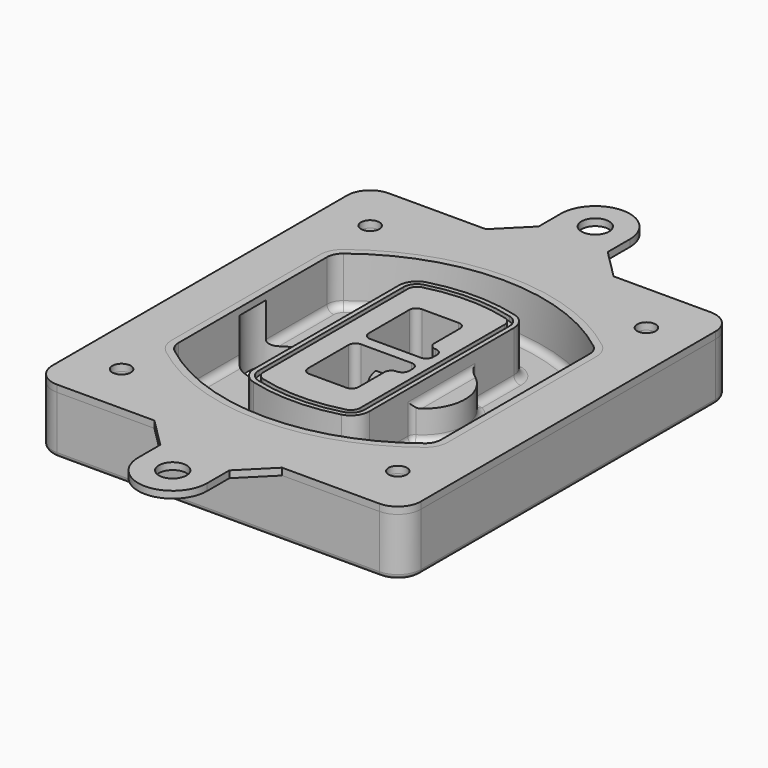
from build123d import *

# Parameters (mm, degrees)
F0_R      = 4
F1_DEPTH  = 25
F2_DEPTH  = 3
F3_DEPTH  = 18
F5_DEPTH  = 21
F6_DEPTH  = 2
F8_DEPTH  = 20
F9_DEPTH  = 16
F10_DEPTH = 25
F7_R      = 6
F7_R_2    = 4
F11_DEPTH = 6
F13_DEPTH = 9
F14_R     = 3
F15_R     = 2
F16_R     = 6
F16_R_2   = 4
F17_DEPTH = 3


with BuildPart() as f1:
    # F0 (on Top) → F1 (new body)
    with BuildSketch(Plane.XY):
        with BuildLine():
            ThreePointArc((-80, -80), (-77.0710678119, -87.0710678119), (-70, -90))
            Line((-70, -90), (70, -90))
            ThreePointArc((70, -90), (77.0710678119, -87.0710678119), (80, -80))
            Line((80, -80), (80, 80))
            ThreePointArc((80, 80), (77.0710678119, 87.0710678119), (70, 90))
            Line((70, 90), (-70, 90))
            ThreePointArc((-70, 90), (-77.0710678119, 87.0710678119), (-80, 80))
            Line((-80, 80), (-80, -80))
        make_face()
        with Locations((-60, -67.5)):
            Circle(F0_R, mode=Mode.SUBTRACT)
        with Locations((60, -67.5)):
            Circle(F0_R, mode=Mode.SUBTRACT)
        with Locations((-60, 67.5)):
            Circle(F0_R, mode=Mode.SUBTRACT)
        with BuildLine():
            ThreePointArc((-64, 40.2934422872), (-62.5820384798, 46.4328484224), (-58.6153846154, 51.3286200352))
            ThreePointArc((-58.6153846154, 51.3286200352), (0, 71.5), (58.6153846154, 51.3286200352))
            ThreePointArc((58.6153846154, 51.3286200352), (62.5820384798, 46.4328484224), (64, 40.2934422872))
            Line((64, 40.2934422872), (64, -40.2934422872))
            ThreePointArc((64, -40.2934422872), (62.5820384798, -46.4328484224), (58.6153846154, -51.3286200352))
            ThreePointArc((58.6153846154, -51.3286200352), (0, -71.5), (-58.6153846154, -51.3286200352))
            ThreePointArc((-58.6153846154, -51.3286200352), (-62.5820384798, -46.4328484224), (-64, -40.2934422872))
            Line((-64, -40.2934422872), (-64, 40.2934422872))
        make_face(mode=Mode.SUBTRACT)
        with Locations((60, 67.5)):
            Circle(F0_R, mode=Mode.SUBTRACT)
        with BuildLine():
            ThreePointArc((58.6153846154, 51.3286200352), (0, 71.5), (-58.6153846154, 51.3286200352))
            ThreePointArc((-58.6153846154, 51.3286200352), (-62.5820384798, 46.4328484224), (-64, 40.2934422872))
            Line((-64, 40.2934422872), (-64, -40.2934422872))
            ThreePointArc((-64, -40.2934422872), (-62.5820384798, -46.4328484224), (-58.6153846154, -51.3286200352))
            ThreePointArc((-58.6153846154, -51.3286200352), (0, -71.5), (58.6153846154, -51.3286200352))
            ThreePointArc((58.6153846154, -51.3286200352), (62.5820384798, -46.4328484224), (64, -40.2934422872))
            Line((64, -40.2934422872), (64, 40.2934422872))
            ThreePointArc((64, 40.2934422872), (62.5820384798, 46.4328484224), (58.6153846154, 51.3286200352))
        make_face()
        with BuildLine():
            Line((-60, -40.2934422872), (-60, 40.2934422872))
            ThreePointArc((-60, 40.2934422872), (-58.9871703427, 44.6787323838), (-56.1538461538, 48.1757121072))
            ThreePointArc((-56.1538461538, 48.1757121072), (0, 67.5), (56.1538461538, 48.1757121072))
            ThreePointArc((56.1538461538, 48.1757121072), (58.9871703427, 44.6787323838), (60, 40.2934422872))
            Line((60, 40.2934422872), (60, -40.2934422872))
            ThreePointArc((60, -40.2934422872), (58.9871703427, -44.6787323838), (56.1538461538, -48.1757121072))
            ThreePointArc((56.1538461538, -48.1757121072), (0, -67.5), (-56.1538461538, -48.1757121072))
            ThreePointArc((-56.1538461538, -48.1757121072), (-58.9871703427, -44.6787323838), (-60, -40.2934422872))
        make_face(mode=Mode.SUBTRACT)
        with BuildLine():
            ThreePointArc((-56.1538461538, 48.1757121072), (-58.9871703427, 44.6787323838), (-60, 40.2934422872))
            Line((-60, 40.2934422872), (-60, -40.2934422872))
            ThreePointArc((-60, -40.2934422872), (-58.9871703427, -44.6787323838), (-56.1538461538, -48.1757121072))
            ThreePointArc((-56.1538461538, -48.1757121072), (0, -67.5), (56.1538461538, -48.1757121072))
            ThreePointArc((56.1538461538, -48.1757121072), (58.9871703427, -44.6787323838), (60, -40.2934422872))
            Line((60, -40.2934422872), (60, 40.2934422872))
            ThreePointArc((60, 40.2934422872), (58.9871703427, 44.6787323838), (56.1538461538, 48.1757121072))
            ThreePointArc((56.1538461538, 48.1757121072), (0, 67.5), (-56.1538461538, 48.1757121072))
        make_face()
        with BuildLine():
            ThreePointArc((54.3076923077, 45.8110311612), (56.2910192399, 43.3631453548), (57, 40.2934422872))
            Line((57, 40.2934422872), (57, -40.2934422872))
            ThreePointArc((57, -40.2934422872), (56.2910192399, -43.3631453548), (54.3076923077, -45.8110311612))
            ThreePointArc((54.3076923077, -45.8110311612), (0, -64.5), (-54.3076923077, -45.8110311612))
            ThreePointArc((-54.3076923077, -45.8110311612), (-56.2910192399, -43.3631453548), (-57, -40.2934422872))
            Line((-57, -40.2934422872), (-57, 40.2934422872))
            ThreePointArc((-57, 40.2934422872), (-56.2910192399, 43.3631453548), (-54.3076923077, 45.8110311612))
            ThreePointArc((-54.3076923077, 45.8110311612), (0, 64.5), (54.3076923077, 45.8110311612))
        make_face(mode=Mode.SUBTRACT)
        with BuildLine():
            Line((57, -40.2934422872), (57, 40.2934422872))
            ThreePointArc((57, 40.2934422872), (56.2910192399, 43.3631453548), (54.3076923077, 45.8110311612))
            ThreePointArc((54.3076923077, 45.8110311612), (0, 64.5), (-54.3076923077, 45.8110311612))
            ThreePointArc((-54.3076923077, 45.8110311612), (-56.2910192399, 43.3631453548), (-57, 40.2934422872))
            Line((-57, 40.2934422872), (-57, -40.2934422872))
            ThreePointArc((-57, -40.2934422872), (-56.2910192399, -43.3631453548), (-54.3076923077, -45.8110311612))
            ThreePointArc((-54.3076923077, -45.8110311612), (0, -64.5), (54.3076923077, -45.8110311612))
            ThreePointArc((54.3076923077, -45.8110311612), (56.2910192399, -43.3631453548), (57, -40.2934422872))
        make_face()
    extrude(amount=-F1_DEPTH)

    # F0 (on Top) → F2 (join)
    with BuildSketch(Plane.XY):
        with BuildLine():
            ThreePointArc((-56.1538461538, 48.1757121072), (-58.9871703427, 44.6787323838), (-60, 40.2934422872))
            Line((-60, 40.2934422872), (-60, -40.2934422872))
            ThreePointArc((-60, -40.2934422872), (-58.9871703427, -44.6787323838), (-56.1538461538, -48.1757121072))
            ThreePointArc((-56.1538461538, -48.1757121072), (0, -67.5), (56.1538461538, -48.1757121072))
            ThreePointArc((56.1538461538, -48.1757121072), (58.9871703427, -44.6787323838), (60, -40.2934422872))
            Line((60, -40.2934422872), (60, 40.2934422872))
            ThreePointArc((60, 40.2934422872), (58.9871703427, 44.6787323838), (56.1538461538, 48.1757121072))
            ThreePointArc((56.1538461538, 48.1757121072), (0, 67.5), (-56.1538461538, 48.1757121072))
        make_face()
        with BuildLine():
            ThreePointArc((54.3076923077, 45.8110311612), (56.2910192399, 43.3631453548), (57, 40.2934422872))
            Line((57, 40.2934422872), (57, -40.2934422872))
            ThreePointArc((57, -40.2934422872), (56.2910192399, -43.3631453548), (54.3076923077, -45.8110311612))
            ThreePointArc((54.3076923077, -45.8110311612), (0, -64.5), (-54.3076923077, -45.8110311612))
            ThreePointArc((-54.3076923077, -45.8110311612), (-56.2910192399, -43.3631453548), (-57, -40.2934422872))
            Line((-57, -40.2934422872), (-57, 40.2934422872))
            ThreePointArc((-57, 40.2934422872), (-56.2910192399, 43.3631453548), (-54.3076923077, 45.8110311612))
            ThreePointArc((-54.3076923077, 45.8110311612), (0, 64.5), (54.3076923077, 45.8110311612))
        make_face(mode=Mode.SUBTRACT)
    extrude(amount=F2_DEPTH)

    # F0 (on Top) → F3 (cut)
    with BuildSketch(Plane.XY):
        with BuildLine():
            Line((57, -40.2934422872), (57, 40.2934422872))
            ThreePointArc((57, 40.2934422872), (56.2910192399, 43.3631453548), (54.3076923077, 45.8110311612))
            ThreePointArc((54.3076923077, 45.8110311612), (0, 64.5), (-54.3076923077, 45.8110311612))
            ThreePointArc((-54.3076923077, 45.8110311612), (-56.2910192399, 43.3631453548), (-57, 40.2934422872))
            Line((-57, 40.2934422872), (-57, -40.2934422872))
            ThreePointArc((-57, -40.2934422872), (-56.2910192399, -43.3631453548), (-54.3076923077, -45.8110311612))
            ThreePointArc((-54.3076923077, -45.8110311612), (0, -64.5), (54.3076923077, -45.8110311612))
            ThreePointArc((54.3076923077, -45.8110311612), (56.2910192399, -43.3631453548), (57, -40.2934422872))
        make_face()
    extrude(amount=-F3_DEPTH, mode=Mode.SUBTRACT)

    # F4 (on face) → F5 (join, through all)
    with BuildSketch(Plane.XY.offset(3)):
        with BuildLine():
            ThreePointArc((-25, -39.2465276821), (-23.3511545998, -44.1109737193), (-19.0842911877, -46.9702398883))
            ThreePointArc((-19.0842911877, -46.9702398883), (0, -49.5), (19.0842911877, -46.9702398883))
            ThreePointArc((19.0842911877, -46.9702398883), (23.3511545998, -44.1109737193), (25, -39.2465276821))
            Line((25, -39.2465276821), (25, 39.2465276821))
            ThreePointArc((25, 39.2465276821), (23.3511545998, 44.1109737193), (19.0842911877, 46.9702398883))
            ThreePointArc((19.0842911877, 46.9702398883), (0, 49.5), (-19.0842911877, 46.9702398883))
            ThreePointArc((-19.0842911877, 46.9702398883), (-23.3511545998, 44.1109737193), (-25, 39.2465276821))
            Line((-25, 39.2465276821), (-25, -39.2465276821))
        make_face()
        with BuildLine():
            ThreePointArc((18.5632183908, 45.0393118368), (21.7633659499, 42.89486221), (23, 39.2465276821))
            Line((23, 39.2465276821), (23, -39.2465276821))
            ThreePointArc((23, -39.2465276821), (21.7633659499, -42.89486221), (18.5632183908, -45.0393118368))
            ThreePointArc((18.5632183908, -45.0393118368), (0, -47.5), (-18.5632183908, -45.0393118368))
            ThreePointArc((-18.5632183908, -45.0393118368), (-21.7633659499, -42.89486221), (-23, -39.2465276821))
            Line((-23, -39.2465276821), (-23, 39.2465276821))
            ThreePointArc((-23, 39.2465276821), (-21.7633659499, 42.89486221), (-18.5632183908, 45.0393118368))
            ThreePointArc((-18.5632183908, 45.0393118368), (0, 47.5), (18.5632183908, 45.0393118368))
        make_face(mode=Mode.SUBTRACT)
        with BuildLine():
            Line((23, -39.2465276821), (23, 39.2465276821))
            ThreePointArc((23, 39.2465276821), (21.7633659499, 42.89486221), (18.5632183908, 45.0393118368))
            ThreePointArc((18.5632183908, 45.0393118368), (0, 47.5), (-18.5632183908, 45.0393118368))
            ThreePointArc((-18.5632183908, 45.0393118368), (-21.7633659499, 42.89486221), (-23, 39.2465276821))
            Line((-23, 39.2465276821), (-23, -39.2465276821))
            ThreePointArc((-23, -39.2465276821), (-21.7633659499, -42.89486221), (-18.5632183908, -45.0393118368))
            ThreePointArc((-18.5632183908, -45.0393118368), (0, -47.5), (18.5632183908, -45.0393118368))
            ThreePointArc((18.5632183908, -45.0393118368), (21.7633659499, -42.89486221), (23, -39.2465276821))
        make_face()
        with BuildLine():
            ThreePointArc((18.0421455939, 43.1083837852), (20.1755772999, 41.6787507007), (21, 39.2465276821))
            Line((21, 39.2465276821), (21, -39.2465276821))
            ThreePointArc((21, -39.2465276821), (20.1755772999, -41.6787507007), (18.0421455939, -43.1083837852))
            ThreePointArc((18.0421455939, -43.1083837852), (0, -45.5), (-18.0421455939, -43.1083837852))
            ThreePointArc((-18.0421455939, -43.1083837852), (-20.1755772999, -41.6787507007), (-21, -39.2465276821))
            Line((-21, -39.2465276821), (-21, 39.2465276821))
            ThreePointArc((-21, 39.2465276821), (-20.1755772999, 41.6787507007), (-18.0421455939, 43.1083837852))
            ThreePointArc((-18.0421455939, 43.1083837852), (0, 45.5), (18.0421455939, 43.1083837852))
        make_face(mode=Mode.SUBTRACT)
        with BuildLine():
            Line((21, -39.2465276821), (21, 39.2465276821))
            ThreePointArc((21, 39.2465276821), (20.1755772999, 41.6787507007), (18.0421455939, 43.1083837852))
            ThreePointArc((18.0421455939, 43.1083837852), (0, 45.5), (-18.0421455939, 43.1083837852))
            ThreePointArc((-18.0421455939, 43.1083837852), (-20.1755772999, 41.6787507007), (-21, 39.2465276821))
            Line((-21, 39.2465276821), (-21, -39.2465276821))
            ThreePointArc((-21, -39.2465276821), (-20.1755772999, -41.6787507007), (-18.0421455939, -43.1083837852))
            ThreePointArc((-18.0421455939, -43.1083837852), (0, -45.5), (18.0421455939, -43.1083837852))
            ThreePointArc((18.0421455939, -43.1083837852), (20.1755772999, -41.6787507007), (21, -39.2465276821))
        make_face()
        with BuildLine():
            Line((-8, -2.5), (14, -2.5))
            ThreePointArc((14, -2.5), (16.1213203436, -3.3786796564), (17, -5.5))
            Line((17, -5.5), (17, -7.5))
            ThreePointArc((17, -7.5), (16.1213203436, -9.6213203436), (14, -10.5))
            ThreePointArc((14, -10.5), (11.8786796564, -11.3786796564), (11, -13.5))
            Line((11, -13.5), (11, -27.5))
            ThreePointArc((11, -27.5), (10.1213203436, -29.6213203436), (8, -30.5))
            Line((8, -30.5), (-8, -30.5))
            ThreePointArc((-8, -30.5), (-10.1213203436, -29.6213203436), (-11, -27.5))
            Line((-11, -27.5), (-11, -5.5))
            ThreePointArc((-11, -5.5), (-10.1213203436, -3.3786796564), (-8, -2.5))
        make_face(mode=Mode.SUBTRACT)
        with BuildLine():
            ThreePointArc((-8, 2.5), (-10.1213203436, 3.3786796564), (-11, 5.5))
            Line((-11, 5.5), (-11, 27.5))
            ThreePointArc((-11, 27.5), (-10.1213203436, 29.6213203436), (-8, 30.5))
            Line((-8, 30.5), (8, 30.5))
            ThreePointArc((8, 30.5), (10.1213203436, 29.6213203436), (11, 27.5))
            Line((11, 27.5), (11, 13.5))
            ThreePointArc((11, 13.5), (11.8786796564, 11.3786796564), (14, 10.5))
            ThreePointArc((14, 10.5), (16.1213203436, 9.6213203436), (17, 7.5))
            Line((17, 7.5), (17, 5.5))
            ThreePointArc((17, 5.5), (16.1213203436, 3.3786796564), (14, 2.5))
            Line((14, 2.5), (-8, 2.5))
        make_face(mode=Mode.SUBTRACT)
    extrude(amount=-F5_DEPTH)

    # F4 (on face) → F6 (cut)
    with BuildSketch(Plane.XY.offset(3)):
        with BuildLine():
            Line((23, -39.2465276821), (23, 39.2465276821))
            ThreePointArc((23, 39.2465276821), (21.7633659499, 42.89486221), (18.5632183908, 45.0393118368))
            ThreePointArc((18.5632183908, 45.0393118368), (0, 47.5), (-18.5632183908, 45.0393118368))
            ThreePointArc((-18.5632183908, 45.0393118368), (-21.7633659499, 42.89486221), (-23, 39.2465276821))
            Line((-23, 39.2465276821), (-23, -39.2465276821))
            ThreePointArc((-23, -39.2465276821), (-21.7633659499, -42.89486221), (-18.5632183908, -45.0393118368))
            ThreePointArc((-18.5632183908, -45.0393118368), (0, -47.5), (18.5632183908, -45.0393118368))
            ThreePointArc((18.5632183908, -45.0393118368), (21.7633659499, -42.89486221), (23, -39.2465276821))
        make_face()
        with BuildLine():
            ThreePointArc((18.0421455939, 43.1083837852), (20.1755772999, 41.6787507007), (21, 39.2465276821))
            Line((21, 39.2465276821), (21, -39.2465276821))
            ThreePointArc((21, -39.2465276821), (20.1755772999, -41.6787507007), (18.0421455939, -43.1083837852))
            ThreePointArc((18.0421455939, -43.1083837852), (0, -45.5), (-18.0421455939, -43.1083837852))
            ThreePointArc((-18.0421455939, -43.1083837852), (-20.1755772999, -41.6787507007), (-21, -39.2465276821))
            Line((-21, -39.2465276821), (-21, 39.2465276821))
            ThreePointArc((-21, 39.2465276821), (-20.1755772999, 41.6787507007), (-18.0421455939, 43.1083837852))
            ThreePointArc((-18.0421455939, 43.1083837852), (0, 45.5), (18.0421455939, 43.1083837852))
        make_face(mode=Mode.SUBTRACT)
    extrude(amount=-F6_DEPTH, mode=Mode.SUBTRACT)

    # F7 (on face) → F8 (join)
    with BuildSketch(Plane(origin=(0, 0, -25), x_dir=(1, 0, 0), z_dir=(0, 0, -1))):
        with BuildLine():
            ThreePointArc((3.28842436, 0), (16.7567035675, 13.4682792075), (30.224982775, 0))
            Line((30.224982775, 0), (35.224982775, 0))
            ThreePointArc((35.224982775, 0), (16.7567035675, 18.4682792075), (-1.71157564, 0))
            Line((-1.71157564, 0), (3.28842436, 0))
        make_face()
        with BuildLine():
            Line((3.28842436, 0), (30.224982775, 0))
            ThreePointArc((30.224982775, 0), (16.7567035675, 13.4682792075), (3.28842436, 0))
        make_face()
        with BuildLine():
            ThreePointArc((3.28842436, 0), (16.7567035675, -13.4682792075), (30.224982775, 0))
            Line((30.224982775, 0), (3.28842436, 0))
        make_face()
        with BuildLine():
            Line((35.224982775, 0), (30.224982775, 0))
            ThreePointArc((30.224982775, 0), (16.7567035675, -13.4682792075), (3.28842436, 0))
            Line((3.28842436, 0), (-1.71157564, 0))
            ThreePointArc((-1.71157564, 0), (16.7567035675, -18.4682792075), (35.224982775, 0))
        make_face()
    extrude(amount=-F8_DEPTH)

    # F7 (on face) → F9 (cut)
    with BuildSketch(Plane(origin=(0, 0, -25), x_dir=(1, 0, 0), z_dir=(0, 0, -1))):
        with BuildLine():
            Line((3.28842436, 0), (30.224982775, 0))
            ThreePointArc((30.224982775, 0), (16.7567035675, 13.4682792075), (3.28842436, 0))
        make_face()
        with BuildLine():
            ThreePointArc((3.28842436, 0), (16.7567035675, -13.4682792075), (30.224982775, 0))
            Line((30.224982775, 0), (3.28842436, 0))
        make_face()
    extrude(amount=-F9_DEPTH, mode=Mode.SUBTRACT)

    # F7 (on face) → F10 (cut)
    with BuildSketch(Plane(origin=(0, 0, -25), x_dir=(1, 0, 0), z_dir=(0, 0, -1))):
        with BuildLine():
            Line((-59.0318229325, 0), (-32.0952645175, 0))
            ThreePointArc((-32.0952645175, 0), (-45.563543725, 13.4682792075), (-59.0318229325, 0))
        make_face()
        with BuildLine():
            ThreePointArc((-59.0318229325, 0), (-45.563543725, -13.4682792075), (-32.0952645175, 0))
            Line((-32.0952645175, 0), (-59.0318229325, 0))
        make_face()
    extrude(amount=-F10_DEPTH, mode=Mode.SUBTRACT)

    # F7 (on face) → F11 (cut)
    with BuildSketch(Plane(origin=(0, 0, -25), x_dir=(1, 0, 0), z_dir=(0, 0, -1))):
        with Locations((60, -67.5)):
            Circle(F7_R)
        with Locations((60, -67.5)):
            Circle(F7_R_2, mode=Mode.SUBTRACT)
        with Locations((60, -67.5)):
            Circle(F7_R)
        with Locations((60, -67.5)):
            Circle(F7_R_2, mode=Mode.SUBTRACT)
        with Locations((-60, -67.5)):
            Circle(F7_R)
        with Locations((-60, -67.5)):
            Circle(F7_R_2, mode=Mode.SUBTRACT)
        with Locations((-60, -67.5)):
            Circle(F7_R)
        with Locations((-60, -67.5)):
            Circle(F7_R_2, mode=Mode.SUBTRACT)
        with Locations((-60, 67.5)):
            Circle(F7_R)
        with Locations((-60, 67.5)):
            Circle(F7_R_2, mode=Mode.SUBTRACT)
        with Locations((-60, 67.5)):
            Circle(F7_R)
        with Locations((-60, 67.5)):
            Circle(F7_R_2, mode=Mode.SUBTRACT)
        with Locations((60, 67.5)):
            Circle(F7_R)
        with Locations((60, 67.5)):
            Circle(F7_R_2, mode=Mode.SUBTRACT)
        with Locations((60, 67.5)):
            Circle(F7_R)
        with Locations((60, 67.5)):
            Circle(F7_R_2, mode=Mode.SUBTRACT)
    extrude(amount=-F11_DEPTH, mode=Mode.SUBTRACT)

    # F12 (on face) → F13 (cut, through all)
    with BuildSketch(Plane(origin=(0, 0, -9), x_dir=(1, 0, 0), z_dir=(0, 0, -1))):
        with BuildLine():
            Line((11, 13.5), (11, 17.5481537753))
            ThreePointArc((11, 17.5481537753), (2.5696536419, 11.8239143813), (-1.5415842455, 2.5))
            Line((-1.5415842455, 2.5), (3.5224848595, 2.5))
            ThreePointArc((3.5224848595, 2.5), (6.1857188154, 8.3455872281), (11.2536447004, 12.2927168648))
            ThreePointArc((11.2536447004, 12.2927168648), (11.0640958889, 12.8831798879), (11, 13.5))
        make_face()
        with BuildLine():
            ThreePointArc((11.2536447004, -12.2927168648), (6.1857188154, -8.3455872281), (3.5224848595, -2.5))
            Line((3.5224848595, -2.5), (-1.5415842455, -2.5))
            ThreePointArc((-1.5415842455, -2.5), (2.5696536419, -11.8239143813), (11, -17.5481537753))
            Line((11, -17.5481537753), (11, -13.5))
            ThreePointArc((11, -13.5), (11.0640958889, -12.8831798879), (11.2536447004, -12.2927168648))
        make_face()
        with BuildLine():
            ThreePointArc((11.2536447004, 12.2927168648), (6.1857188154, 8.3455872281), (3.5224848595, 2.5))
            Line((3.5224848595, 2.5), (14, 2.5))
            ThreePointArc((14, 2.5), (16.1213203436, 3.3786796564), (17, 5.5))
            Line((17, 5.5), (17, 7.5))
            ThreePointArc((17, 7.5), (16.1213203436, 9.6213203436), (14, 10.5))
            ThreePointArc((14, 10.5), (12.3601599782, 10.9878446101), (11.2536447004, 12.2927168648))
        make_face()
        with BuildLine():
            Line((14, -2.5), (3.5224848595, -2.5))
            ThreePointArc((3.5224848595, -2.5), (6.1857188154, -8.3455872281), (11.2536447004, -12.2927168648))
            ThreePointArc((11.2536447004, -12.2927168648), (12.3601599782, -10.9878446101), (14, -10.5))
            ThreePointArc((14, -10.5), (16.1213203436, -9.6213203436), (17, -7.5))
            Line((17, -7.5), (17, -5.5))
            ThreePointArc((17, -5.5), (16.1213203436, -3.3786796564), (14, -2.5))
        make_face()
    extrude(amount=F13_DEPTH, mode=Mode.SUBTRACT)

    # F14
    f14_edges = [f1.edges().sort_by_distance(p)[0] for p in [
        (-57, -23.703476, -18),
        (-57, 23.703476, -18),
        (25, 0, -5),
        (25, 16.526506, -11.5),
        (25, -16.526506, -11.5),
        (25, -27.886517, -18),
        (35.224983, 0, -18),
    ]]
    fillet(f14_edges, radius=F14_R)

    # F15
    f15_edges = [f1.edges().sort_by_distance(p)[0] for p in [
        (0, -90, -25),
    ]]
    fillet(f15_edges, radius=F15_R)


with BuildPart() as f17:
    # F16 (on face) → F17 (new body, through all)
    with BuildSketch(Plane.XY):
        with BuildLine():
            Line((-15, 102.7279220614), (-27.7279220614, 90))
            Line((-27.7279220614, 90), (27.7279220614, 90))
            Line((27.7279220614, 90), (15, 102.7279220614))
            Line((15, 102.7279220614), (15, 114.7279220614))
            ThreePointArc((15, 114.7279220614), (10.6066017178, 125.3345237792), (0, 129.7279220614))
            ThreePointArc((0, 129.7279220614), (-10.6066017178, 125.3345237792), (-15, 114.7279220614))
            Line((-15, 114.7279220614), (-15, 102.7279220614))
        make_face()
        with Locations((0, 114.7279220614)):
            Circle(F16_R, mode=Mode.SUBTRACT)
        with BuildLine():
            Line((27.7279220614, -90), (-27.7279220614, -90))
            Line((-27.7279220614, -90), (-15, -102.7279220614))
            Line((-15, -102.7279220614), (-15, -114.7279220614))
            ThreePointArc((-15, -114.7279220614), (-10.6066017178, -125.3345237792), (0, -129.7279220614))
            ThreePointArc((0, -129.7279220614), (10.6066017178, -125.3345237792), (15, -114.7279220614))
            Line((15, -114.7279220614), (15, -102.7279220614))
            Line((15, -102.7279220614), (27.7279220614, -90))
        make_face()
        with Locations((0, -114.7279220614)):
            Circle(F16_R, mode=Mode.SUBTRACT)
        with BuildLine():
            Line((27.7279220614, 90), (-27.7279220614, 90))
            Line((-27.7279220614, 90), (-70, 90))
            ThreePointArc((-70, 90), (-77.0710678119, 87.0710678119), (-80, 80))
            Line((-80, 80), (-80, -80))
            ThreePointArc((-80, -80), (-77.0710678119, -87.0710678119), (-70, -90))
            Line((-70, -90), (-27.7279220614, -90))
            Line((-27.7279220614, -90), (27.7279220614, -90))
            Line((27.7279220614, -90), (70, -90))
            ThreePointArc((70, -90), (77.0710678119, -87.0710678119), (80, -80))
            Line((80, -80), (80, 80))
            ThreePointArc((80, 80), (77.0710678119, 87.0710678119), (70, 90))
            Line((70, 90), (27.7279220614, 90))
        make_face()
        with Locations((-60, -67.5)):
            Circle(F16_R_2, mode=Mode.SUBTRACT)
        with Locations((60, -67.5)):
            Circle(F16_R_2, mode=Mode.SUBTRACT)
        with Locations((-60, 67.5)):
            Circle(F16_R_2, mode=Mode.SUBTRACT)
        with BuildLine():
            ThreePointArc((-60, 40.2934422872), (-58.9871703427, 44.6787323838), (-56.1538461538, 48.1757121072))
            ThreePointArc((-56.1538461538, 48.1757121072), (0, 67.5), (56.1538461538, 48.1757121072))
            ThreePointArc((56.1538461538, 48.1757121072), (58.9871703427, 44.6787323838), (60, 40.2934422872))
            Line((60, 40.2934422872), (60, -40.2934422872))
            ThreePointArc((60, -40.2934422872), (58.9871703427, -44.6787323838), (56.1538461538, -48.1757121072))
            ThreePointArc((56.1538461538, -48.1757121072), (0, -67.5), (-56.1538461538, -48.1757121072))
            ThreePointArc((-56.1538461538, -48.1757121072), (-58.9871703427, -44.6787323838), (-60, -40.2934422872))
            Line((-60, -40.2934422872), (-60, 40.2934422872))
        make_face(mode=Mode.SUBTRACT)
        with Locations((60, 67.5)):
            Circle(F16_R_2, mode=Mode.SUBTRACT)
    extrude(amount=F17_DEPTH)


solid = Compound([f1.part, f17.part])
